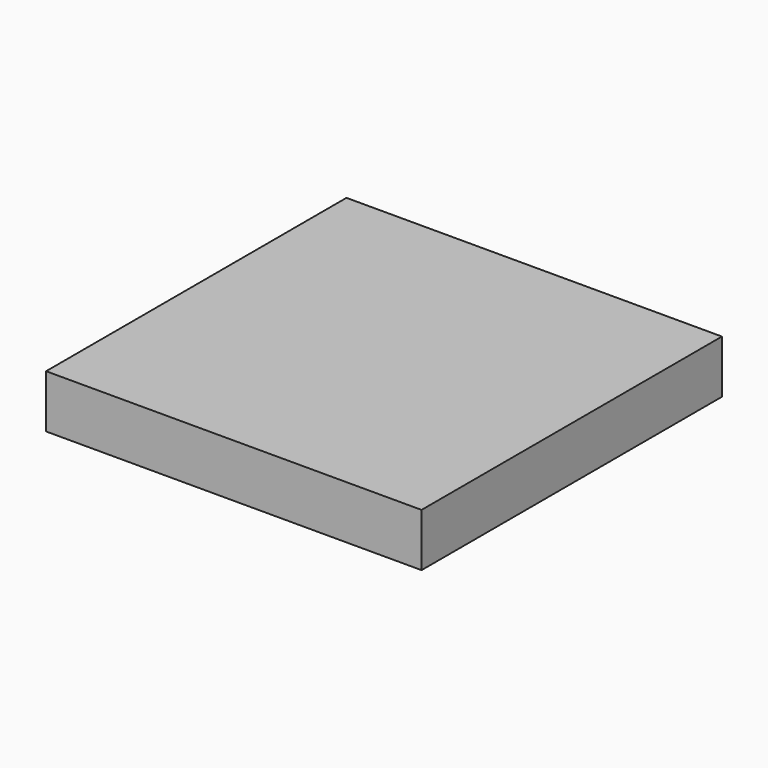
from build123d import *

# Parameters (mm, degrees)
SKETCH_W  = 92
SKETCH_H  = 92
PAD_DEPTH = 13


with BuildPart() as part:
    # Sketch → Pad (new body)
    with BuildSketch(Plane.XY):
        Rectangle(SKETCH_W, SKETCH_H)
    extrude(amount=PAD_DEPTH)


solid = part.part
